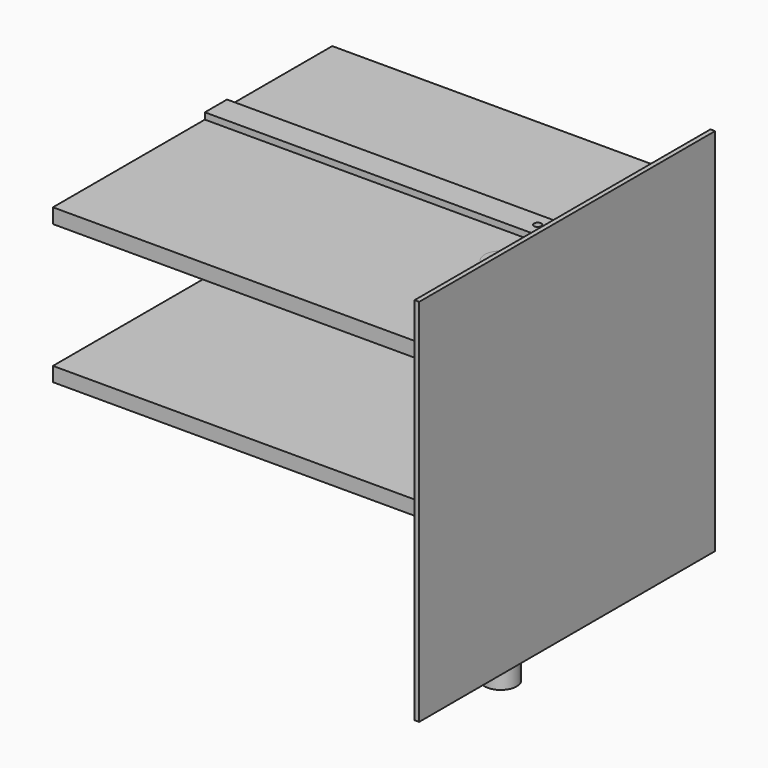
from build123d import *

# Parameters (mm, degrees)
F0_W      = 200
F0_H      = 200
F1_DEPTH  = 2.5
F2_W      = 15
F2_H      = 3.479437
F3_DEPTH  = 200
F4_W      = 188.801
F4_H      = 8
F5_DEPTH  = 200
F6_R      = 2
F7_DEPTH  = 180.385741
F8_R      = 8.663
F9_DEPTH  = 200
F10_W     = 191.071827
F10_H     = 7.76824
F11_DEPTH = 200
F12_R     = 1.5
F13_DEPTH = 25


with BuildPart() as f1:
    # F0 (on Right) → F1 (new body)
    with BuildSketch(Plane.YZ):
        with Locations((100, 100)):
            Rectangle(F0_W, F0_H)
    extrude(amount=F1_DEPTH)


with BuildPart() as f3:
    # F2 (on face) → F3 (new body)
    with BuildSketch(Plane(origin=(0, 0, 0), x_dir=(0, -1, 0), z_dir=(-1, 0, 0))):
        with Locations((-115.722087, 178.645022)):
            Rectangle(F2_W, F2_H)
    extrude(amount=F3_DEPTH)


with BuildPart() as f5:
    # F4 (on face) → F5 (new body)
    with BuildSketch(Plane(origin=(0, 0, 0), x_dir=(0, -1, 0), z_dir=(-1, 0, 0))):
        with Locations((-99.940425, 172.905304)):
            Rectangle(F4_W, F4_H)
    extrude(amount=F5_DEPTH)


with BuildPart() as f7_tool:
    # F6 (on face) → F7 (new body, through all)
    with BuildSketch(Plane.XY.offset(180.384741)):
        with Locations((-26, 115.69231)):
            Circle(F6_R)
    extrude(amount=-F7_DEPTH)


with BuildPart() as f3_1:
    add(f3.part)

    # F7: cut by f7_tool
    add(f7_tool.part, mode=Mode.SUBTRACT)


with BuildPart() as f5_1:
    add(f5.part)

    # F7: cut by f7_tool
    add(f7_tool.part, mode=Mode.SUBTRACT)


with BuildPart() as f9:
    # F8 (on face) → F9 (new body)
    with BuildSketch(Plane.XY.offset(176.905304)):
        with Locations((-22, 85.69231)):
            Circle(F8_R)
    extrude(amount=-F9_DEPTH)


with BuildPart() as f11:
    # F10 (on face) → F11 (new body)
    with BuildSketch(Plane(origin=(0, 0, 0), x_dir=(0, -1, 0), z_dir=(-1, 0, 0))):
        with Locations((-101.068939, 97.521184)):
            Rectangle(F10_W, F10_H)
    extrude(amount=F11_DEPTH)


with BuildPart() as f13:
    # F12 (on face) → F13 (new body)
    with BuildSketch(Plane.XY.offset(101.405304)):
        with Locations((-18.5, 131.69231)):
            Circle(F12_R)
    extrude(amount=F13_DEPTH)


solid = Compound([f1.part, f3_1.part, f5_1.part, f9.part, f11.part, f13.part])
